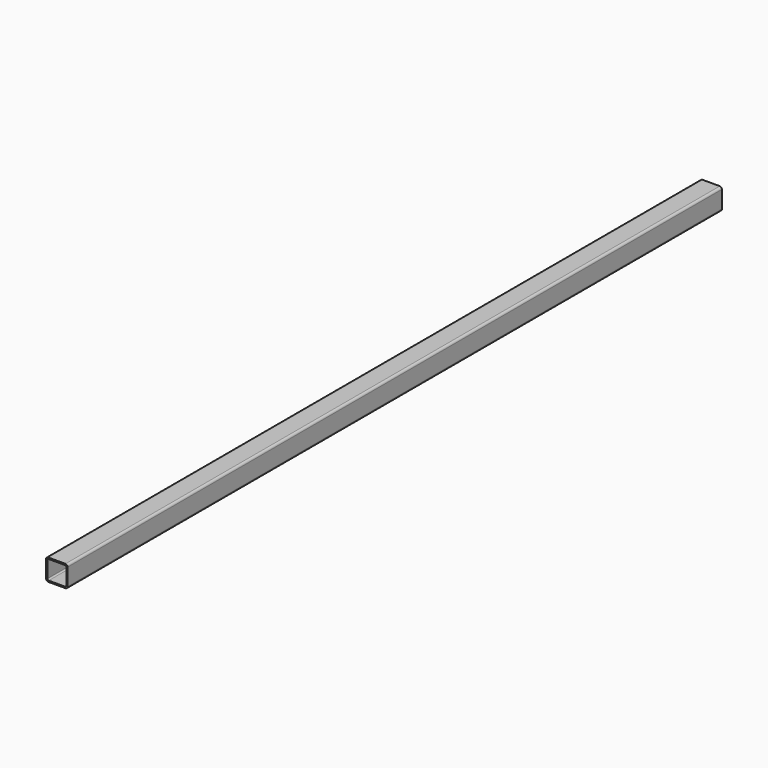
from build123d import *

# Parameters (mm, degrees)
F0_W     = 50
F0_H     = 50
F0_W_2   = 44
F0_H_2   = 44
F1_DEPTH = 1900
F2_DEPTH = 100
F3_R     = 5
F4_R     = 3


with BuildPart() as f1:
    # F0 (on Front) → F1 (new body)
    with BuildSketch(Plane.XZ):
        with Locations((25, 25)):
            Rectangle(F0_W, F0_H)
        with Locations((25, 25)):
            Rectangle(F0_W_2, F0_H_2, mode=Mode.SUBTRACT)
    extrude(amount=F1_DEPTH)

    # F0 (on Front) → F2 (join)
    with BuildSketch(Plane.XZ):
        with Locations((25, 25)):
            Rectangle(F0_W, F0_H)
        with Locations((25, 25)):
            Rectangle(F0_W_2, F0_H_2, mode=Mode.SUBTRACT)
    extrude(amount=F2_DEPTH)

    # F3
    f3_edges = [f1.edges().sort_by_distance(p)[0] for p in [
        (50, -950, 50),
        (50, -950, 0),
        (0, -950, 0),
        (0, -950, 50),
    ]]
    fillet(f3_edges, radius=F3_R)

    # F4
    f4_edges = [f1.edges().sort_by_distance(p)[0] for p in [
        (47, -950, 47),
        (3, -950, 3),
        (3, -950, 47),
        (47, -950, 3),
    ]]
    fillet(f4_edges, radius=F4_R)


solid = f1.part
